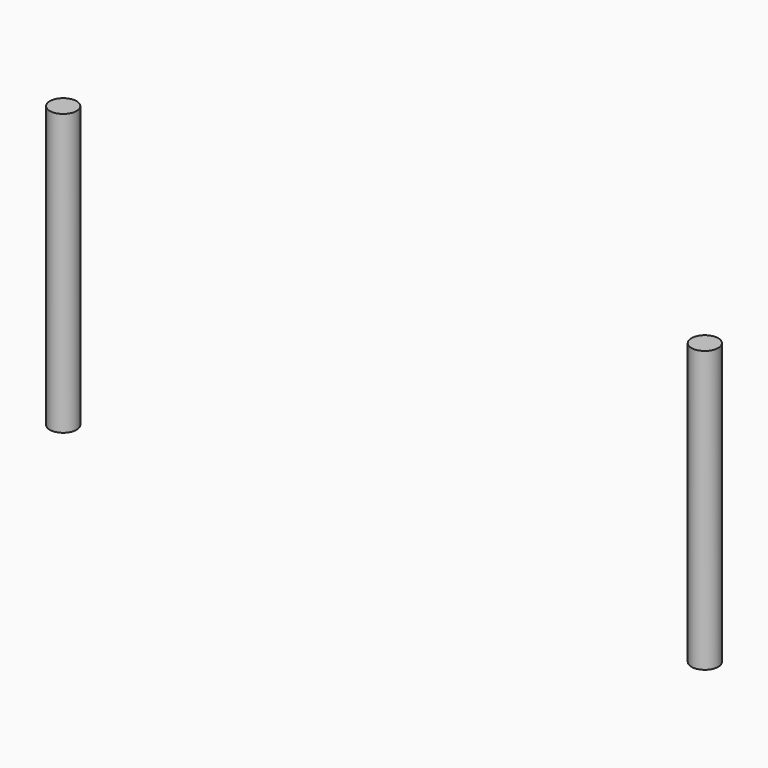
from build123d import *

# Parameters (mm, degrees)
CYLINDER229_R     = 2
CYLINDER229_DEPTH = 42
CYLINDER227_R     = 2
CYLINDER227_DEPTH = 42


with BuildPart() as cylinder229:
    # Cylinder229 → Cylinder229 (new body)
    with BuildSketch(Plane(origin=(14.1, 72, -5), x_dir=(1, 0, 0), z_dir=(0, 0, 1))):
        Circle(CYLINDER229_R)
    extrude(amount=CYLINDER229_DEPTH)


with BuildPart() as fusion273:
    # Cylinder227 → Cylinder227 (new body)
    with BuildSketch(Plane(origin=(-81.9, 72, -5), x_dir=(1, 0, 0), z_dir=(0, 0, 1))):
        Circle(CYLINDER227_R)
    extrude(amount=CYLINDER227_DEPTH)

    # Fusion273: union Cylinder229
    add(cylinder229.part)


with BuildPart() as fusion273_1:
    # Fusion273 placement: moved
    add(fusion273.part.moved(Location((0, -5, 0))))


solid = fusion273_1.part
